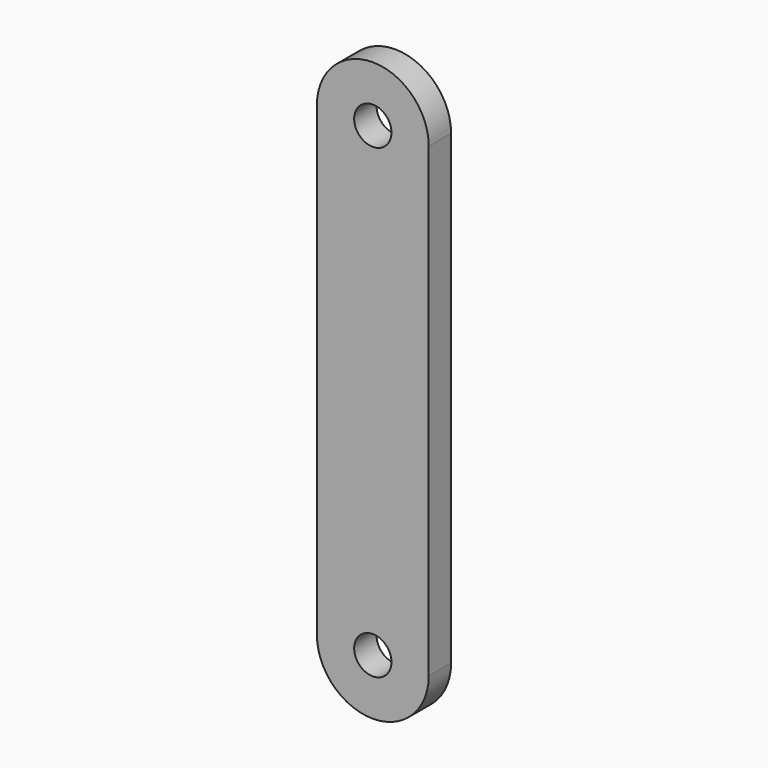
from build123d import *

# Parameters (mm, degrees)
F1_DEPTH = 3


with BuildPart() as f1:
    # F0 (on Front) → F1 (new body)
    with BuildSketch(Plane.XZ):
        with BuildLine():
            Line((2, 0), (6, 0))
            ThreePointArc((6, 0), (0, 6), (-6, 0))
            Line((-6, 0), (-2, 0))
            ThreePointArc((-2, 0), (0, 2), (2, 0))
        make_face()
        with BuildLine():
            Line((6, -50), (6, 0))
            ThreePointArc((6, 0), (0, -6), (-6, 0))
            Line((-6, 0), (-6, -50))
            ThreePointArc((-6, -50), (0, -44), (6, -50))
        make_face()
        with BuildLine():
            ThreePointArc((-6, 0), (0, -6), (6, 0))
            Line((6, 0), (2, 0))
            ThreePointArc((2, 0), (0, -2), (-2, 0))
            Line((-2, 0), (-6, 0))
        make_face()
        with BuildLine():
            Line((2, -50), (6, -50))
            ThreePointArc((6, -50), (0, -44), (-6, -50))
            Line((-6, -50), (-2, -50))
            ThreePointArc((-2, -50), (0, -48), (2, -50))
        make_face()
        with BuildLine():
            ThreePointArc((-6, -50), (0, -56), (6, -50))
            Line((6, -50), (2, -50))
            ThreePointArc((2, -50), (0, -52), (-2, -50))
            Line((-2, -50), (-6, -50))
        make_face()
    extrude(amount=F1_DEPTH)


solid = f1.part
